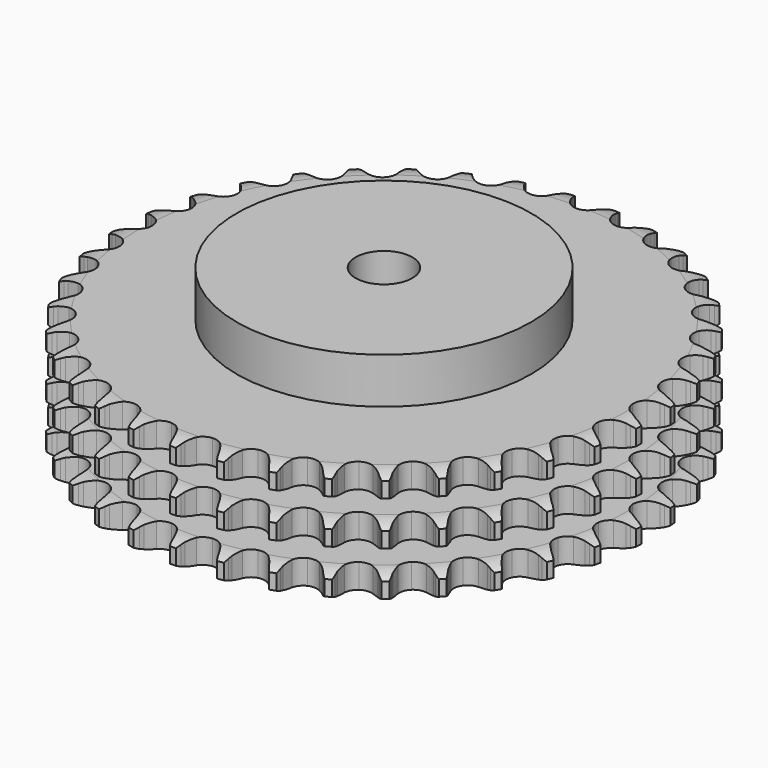
from build123d import *

# Parameters (mm, degrees)
PAD_DEPTH         = 49.8
SKETCH001_R       = 65
PAD001_DEPTH      = 70
SKETCH002_R       = 12.5
POCKET_DEPTH      = 0.001
POCKET_DEPTH_BACK = 70.001


with BuildPart() as part:
    # Sprocket → Pad (new body)
    with BuildSketch(Plane.XY):
        with BuildLine():
            ThreePointArc((-10.038333, 117.941871), (-8.627159, 116.235604), (-7.635, 114.256115))
            Line((-7.635, 114.256115), (-7.046288, 112.650437))
            ThreePointArc((-7.046288, 112.650437), (-6.115619, 110.585078), (-4.898442, 108.674493))
            ThreePointArc((-4.898442, 108.674493), (-2.741289, 106.862258), (0, 106.211991))
            ThreePointArc((0, 106.211991), (2.741289, 106.862258), (4.898442, 108.674493))
            ThreePointArc((4.898442, 108.674493), (6.115619, 110.585078), (7.046288, 112.650437))
            Line((7.046288, 112.650437), (7.635, 114.256115))
            ThreePointArc((7.635, 114.256115), (8.627159, 116.235604), (10.038333, 117.941871))
            ThreePointArc((10.038333, 117.941871), (11.140847, 116.021658), (11.7842, 113.902967))
            Line((11.7842, 113.902967), (12.093082, 112.220891))
            ThreePointArc((12.093082, 112.220891), (12.661318, 110.027957), (13.538096, 107.93915))
            ThreePointArc((13.538096, 107.93915), (15.357952, 105.788422), (17.949914, 104.684229))
            ThreePointArc((17.949914, 104.684229), (20.761667, 104.861861), (23.194061, 106.283469))
            Line((23.194061, 106.283469), (25.98295, 109.839234))
            ThreePointArc((25.98295, 109.839234), (26.388619, 110.59234), (26.834555, 111.322324))
            ThreePointArc((26.834555, 111.322324), (28.146978, 113.105664), (29.826213, 114.548898))
            ThreePointArc((29.826213, 114.548898), (30.588351, 112.46998), (30.86439, 110.273037))
            Line((30.86439, 110.273037), (30.884557, 108.562955))
            ThreePointArc((30.884557, 108.562955), (31.074011, 106.305532), (31.585168, 104.098595))
            ThreePointArc((31.585168, 104.098595), (33.015371, 101.671245), (35.383441, 100.144891))
            ThreePointArc((35.383441, 100.144891), (38.18477, 99.84478), (40.822429, 100.834863))
            Line((40.822429, 100.834863), (44.17213, 103.868157))
            ThreePointArc((44.17213, 103.868157), (44.699239, 104.541871), (45.262128, 105.185992))
            ThreePointArc((45.262128, 105.185992), (46.857059, 106.721879), (48.756048, 107.860562))
            ThreePointArc((48.756048, 107.860562), (49.155885, 105.682745), (49.056667, 103.470752))
            Line((49.056667, 103.470752), (48.787539, 101.78186))
            ThreePointArc((48.787539, 101.78186), (48.592762, 99.52489), (48.723592, 97.263312))
            ThreePointArc((48.723592, 97.263312), (49.722999, 94.629172), (51.799051, 92.724567))
            ThreePointArc((51.799051, 92.724567), (54.509366, 91.955347), (57.27641, 92.485421))
            Line((57.27641, 92.485421), (61.090558, 94.908982))
            ThreePointArc((61.090558, 94.908982), (61.723943, 95.483924), (62.387593, 96.02365))
            ThreePointArc((62.387593, 96.02365), (64.219148, 97.267901), (66.28326, 98.069273))
            ThreePointArc((66.28326, 98.069273), (66.309293, 95.85521), (65.837674, 93.691803))
            Line((65.837674, 93.691803), (65.286993, 92.072687))
            ThreePointArc((65.286993, 92.072687), (64.713587, 89.881099), (64.460327, 87.629941))
            ThreePointArc((64.460327, 87.629941), (65.000187, 84.86479), (66.724497, 82.636727))
            ThreePointArc((66.724497, 82.636727), (69.265828, 81.420525), (72.082653, 81.475342))
            Line((72.082653, 81.475342), (76.251521, 83.219448))
            ThreePointArc((76.251521, 83.219448), (76.972962, 83.679077), (77.718279, 84.098883))
            ThreePointArc((77.718279, 84.098883), (79.733769, 85.015702), (81.903623, 85.456711))
            ThreePointArc((81.903623, 85.456711), (81.555103, 83.270095), (80.72465, 81.21751))
            Line((80.72465, 81.21751), (79.908259, 79.71475))
            ThreePointArc((79.908259, 79.71475), (78.972721, 77.651591), (78.342655, 75.475616))
            ThreePointArc((78.342655, 75.475616), (78.407437, 72.659002), (79.7304, 70.171578))
            ThreePointArc((79.7304, 70.171578), (82.029637, 68.543383), (84.815209, 68.121366))
            Line((84.815209, 68.121366), (89.218868, 69.135843))
            ThreePointArc((89.218868, 69.135843), (90.007609, 69.466936), (90.813153, 69.754744))
            ThreePointArc((90.813153, 69.754744), (92.954595, 70.317756), (95.167768, 70.385714))
            ThreePointArc((95.167768, 70.385714), (94.454721, 68.289451), (93.289325, 66.406738))
            Line((93.289325, 66.406738), (92.230709, 65.063564))
            ThreePointArc((92.230709, 65.063564), (90.959952, 63.188189), (89.971209, 61.149995))
            ThreePointArc((89.971209, 61.149995), (89.559049, 58.362947), (90.442605, 55.687721))
            ThreePointArc((90.442605, 55.687721), (92.433604, 53.694373), (95.107786, 52.807662))
            Line((95.107786, 52.807662), (99.61955, 53.063325))
            ThreePointArc((99.61955, 53.063325), (100.4529, 53.256358), (101.295498, 53.403889))
            ThreePointArc((101.295498, 53.403889), (103.501286, 53.596896), (105.69411, 53.289849))
            ThreePointArc((105.69411, 53.289849), (104.637049, 51.344244), (103.170237, 49.685565))
            Line((103.170237, 49.685565), (101.89985, 48.540619))
            ThreePointArc((101.89985, 48.540619), (100.330432, 46.906978), (99.011454, 45.0652))
            ThreePointArc((99.011454, 45.0652), (98.134209, 42.387897), (98.552941, 39.601829))
            ThreePointArc((98.552941, 39.601829), (100.178424, 37.300673), (102.664286, 35.974778))
            Line((102.664286, 35.974778), (107.154358, 35.464272))
            ThreePointArc((107.154358, 35.464272), (108.008345, 35.513691), (108.863755, 35.5167))
            ThreePointArc((108.863755, 35.5167), (111.070434, 35.334152), (113.179825, 34.660932))
            ThreePointArc((113.179825, 34.660932), (111.80916, 32.921957), (110.083128, 31.535029))
            Line((110.083128, 31.535029), (108.637518, 30.621248))
            ThreePointArc((108.637518, 30.621248), (106.814588, 29.276339), (105.20332, 27.683961))
            ThreePointArc((105.20332, 27.683961), (103.886227, 25.193423), (103.828089, 22.376665))
            ThreePointArc((103.828089, 22.376665), (105.041293, 19.833901), (107.26732, 18.106965))
            Line((107.26732, 18.106965), (111.606531, 16.844976))
            ThreePointArc((111.606531, 16.844976), (112.456586, 16.74936), (113.3002, 16.607761))
            ThreePointArc((113.3002, 16.607761), (115.444287, 16.054908), (117.409562, 15.034883))
            ThreePointArc((117.409562, 15.034883), (115.764725, 13.552565), (113.829128, 12.477288))
            Line((113.829128, 12.477288), (112.249882, 11.820959))
            ThreePointArc((112.249882, 11.820959), (110.225883, 10.803472), (108.368678, 9.506305))
            ThreePointArc((108.368678, 9.506305), (106.649628, 7.274181), (106.116291, 4.507765))
            ThreePointArc((106.116291, 4.507765), (106.882315, 1.796544), (108.78447, -0.281752))
            Line((108.78447, -0.281752), (112.847988, -2.258919))
            ThreePointArc((112.847988, -2.258919), (113.669656, -2.49682), (114.477205, -2.778954))
            ThreePointArc((114.477205, -2.778954), (116.497019, -3.686207), (118.26164, -5.023693))
            ThreePointArc((118.26164, -5.023693), (116.389949, -6.20671), (114.300472, -6.939403))
            Line((114.300472, -6.939403), (112.633021, -7.319396))
            ThreePointArc((112.633021, -7.319396), (110.466179, -7.98019), (108.416467, -8.94483))
            ThreePointArc((108.416467, -8.94483), (106.344913, -10.854326), (105.351721, -13.490816))
            ThreePointArc((105.351721, -13.490816), (105.648528, -16.292496), (107.172088, -18.662364))
            Line((107.172088, -18.662364), (110.843013, -21.297829))
            ThreePointArc((110.843013, -21.297829), (111.612657, -21.67117), (112.36091, -22.085722))
            ThreePointArc((112.36091, -22.085722), (114.198343, -23.321276), (115.711546, -24.937746))
            ThreePointArc((115.711546, -24.937746), (113.666847, -25.787429), (111.483599, -26.156459))
            Line((111.483599, -26.156459), (109.775914, -26.249187))
            ThreePointArc((109.775914, -26.249187), (107.528565, -26.534278), (105.345311, -27.138639))
            ThreePointArc((105.345311, -27.138639), (102.980848, -28.670574), (101.556373, -31.10129))
            ThreePointArc((101.556373, -31.10129), (101.375424, -33.912831), (102.47656, -36.506094))
            Line((102.47656, -36.506094), (105.649287, -39.72404))
            ThreePointArc((105.649287, -39.72404), (106.344765, -40.222081), (107.012195, -40.757125))
            ThreePointArc((107.012195, -40.757125), (108.614389, -42.285434), (109.832641, -44.134385))
            ThreePointArc((109.832641, -44.134385), (107.673756, -44.626291), (105.459546, -44.621042))
            Line((105.459546, -44.621042), (103.760753, -44.423836))
            ThreePointArc((103.760753, -44.423836), (101.49755, -44.325022), (99.243562, -44.551718))
            ThreePointArc((99.243562, -44.551718), (96.654212, -45.662021), (94.839434, -47.817036))
            ThreePointArc((94.839434, -47.817036), (94.185935, -50.557556), (94.832968, -53.29961))
            Line((94.832968, -53.29961), (97.416223, -57.007461))
            ThreePointArc((97.416223, -57.007461), (98.017528, -57.615875), (98.584934, -58.25602))
            ThreePointArc((98.584934, -58.25602), (99.905797, -60.033118), (100.794051, -62.061359))
            ThreePointArc((100.794051, -62.061359), (98.583087, -62.181335), (96.401613, -61.801959))
            Line((96.401613, -61.801959), (94.760585, -61.320491))
            ThreePointArc((94.760585, -61.320491), (92.546635, -60.840616), (90.286757, -60.683126))
            ThreePointArc((90.286757, -60.683126), (87.54701, -61.339856), (85.394136, -63.157174))
            ThreePointArc((85.394136, -63.157174), (84.286887, -65.747832), (84.461204, -68.559793))
            Line((84.461204, -68.559793), (86.380671, -72.650883))
            ThreePointArc((86.380671, -72.650883), (86.870505, -73.352166), (87.321565, -74.078995))
            ThreePointArc((87.321565, -74.078995), (88.323097, -76.053758), (88.8558, -78.20294))
            ThreePointArc((88.8558, -78.20294), (86.656363, -77.947536), (84.570382, -77.204946))
            Line((84.570382, -77.204946), (83.034327, -76.453069))
            ThreePointArc((83.034327, -76.453069), (80.933322, -75.605936), (78.732566, -75.06879))
            ThreePointArc((78.732566, -75.06879), (75.92124, -75.253054), (73.492205, -76.680394))
            ThreePointArc((73.492205, -76.680394), (71.96306, -79.046662), (71.659646, -81.847635))
            Line((71.659646, -81.847635), (72.860105, -86.20427))
            ThreePointArc((72.860105, -86.20427), (73.224375, -86.978248), (73.546113, -87.770852))
            ThreePointArc((73.546113, -87.770852), (74.199502, -89.88647), (74.361329, -92.094765))
            ThreePointArc((74.361329, -92.094765), (72.236692, -91.471328), (70.306215, -90.386887))
            Line((70.306215, -90.386887), (68.919322, -89.38623))
            ThreePointArc((68.919322, -89.38623), (66.991705, -88.196212), (64.913383, -87.294862))
            ThreePointArc((64.913383, -87.294862), (62.111354, -87.001359), (59.476037, -87.99766))
            ThreePointArc((59.476037, -87.99766), (57.568986, -90.071464), (56.796569, -92.78087))
            Line((56.796569, -92.78087), (57.243486, -97.277718))
            ThreePointArc((57.243486, -97.277718), (57.471714, -98.102125), (57.654873, -98.937702))
            ThreePointArc((57.654873, -98.937702), (57.941323, -101.133311), (57.727618, -103.337191))
            ThreePointArc((57.727618, -103.337191), (55.738904, -102.363656), (54.019466, -100.968562))
            Line((54.019466, -100.968562), (52.821634, -99.747913))
            ThreePointArc((52.821634, -99.747913), (51.122858, -98.249243), (49.22676, -97.00962))
            ThreePointArc((49.22676, -97.00962), (46.514638, -96.246794), (43.748852, -96.783393))
            ThreePointArc((43.748852, -96.783393), (41.518757, -98.505074), (40.299559, -101.044969))
            Line((40.299559, -101.044969), (39.980077, -105.552662))
            ThreePointArc((39.980077, -105.552662), (40.065696, -106.403782), (40.105007, -107.258294))
            ThreePointArc((40.105007, -107.258294), (40.016277, -109.470732), (39.433189, -111.606794))
            ThreePointArc((39.433189, -111.606794), (37.637608, -110.311169), (36.178675, -108.645555))
            Line((36.178675, -108.645555), (35.204364, -107.240029))
            ThreePointArc((35.204364, -107.240029), (33.783299, -105.475822), (32.123972, -103.933588))
            ThreePointArc((32.123972, -103.933588), (29.57978, -102.723383), (26.763092, -102.784843))
            ThreePointArc((26.763092, -102.784843), (24.274109, -104.104872), (22.643204, -106.402188))
            Line((22.643204, -106.402188), (21.566513, -110.791049))
            ThreePointArc((21.566513, -110.791049), (21.507061, -111.644396), (21.401393, -112.49326))
            ThreePointArc((21.401393, -112.49326), (20.940036, -114.658879), (20.004339, -116.665674))
            ThreePointArc((20.004339, -116.665674), (18.453548, -115.08523), (17.29709, -113.197013))
            Line((17.29709, -113.197013), (16.574328, -111.647045))
            ThreePointArc((16.574328, -111.647045), (15.471857, -109.668053), (14.097036, -107.867575))
            ThreePointArc((14.097036, -107.867575), (11.793966, -106.244808), (9.007406, -105.829361))
            ThreePointArc((9.007406, -105.829361), (6.33114, -106.709763), (4.335445, -108.698409))
            Line((4.335445, -108.698409), (2.532521, -112.842179))
            ThreePointArc((2.532521, -112.842179), (2.329707, -113.673204), (2.082101, -114.492))
            ThreePointArc((2.082101, -114.492), (1.261388, -116.548498), (0, -118.368294))
            ThreePointArc((0, -118.368294), (-1.261388, -116.548498), (-2.082101, -114.492))
            Line((-2.082101, -114.492), (-2.532521, -112.842179))
            ThreePointArc((-2.532521, -112.842179), (-3.284682, -110.705335), (-4.335445, -108.698409))
            ThreePointArc((-4.335445, -108.698409), (-6.33114, -106.709763), (-9.007406, -105.829361))
            ThreePointArc((-9.007406, -105.829361), (-11.793966, -106.244808), (-14.097036, -107.867575))
            Line((-14.097036, -107.867575), (-16.574328, -111.647045))
            ThreePointArc((-16.574328, -111.647045), (-16.914668, -112.431841), (-17.29709, -113.197013))
            ThreePointArc((-17.29709, -113.197013), (-18.453548, -115.08523), (-20.004339, -116.665674))
            ThreePointArc((-20.004339, -116.665674), (-20.940036, -114.658879), (-21.401393, -112.49326))
            Line((-21.401393, -112.49326), (-21.566513, -110.791049))
            ThreePointArc((-21.566513, -110.791049), (-21.946728, -108.557825), (-22.643204, -106.402188))
            ThreePointArc((-22.643204, -106.402188), (-24.274109, -104.104872), (-26.763092, -102.784843))
            ThreePointArc((-26.763092, -102.784843), (-29.57978, -102.723383), (-32.123972, -103.933588))
            Line((-32.123972, -103.933588), (-35.204364, -107.240029))
            ThreePointArc((-35.204364, -107.240029), (-35.67244, -107.956018), (-36.178675, -108.645555))
            ThreePointArc((-36.178675, -108.645555), (-37.637608, -110.311169), (-39.433189, -111.606794))
            ThreePointArc((-39.433189, -111.606794), (-40.016277, -109.470732), (-40.105007, -107.258294))
            Line((-40.105007, -107.258294), (-39.980077, -105.552662))
            ThreePointArc((-39.980077, -105.552662), (-39.977405, -103.287305), (-40.299559, -101.044969))
            ThreePointArc((-40.299559, -101.044969), (-41.518757, -98.505074), (-43.748852, -96.783393))
            ThreePointArc((-43.748852, -96.783393), (-46.514638, -96.246794), (-49.22676, -97.00962))
            Line((-49.22676, -97.00962), (-52.821634, -99.747913))
            ThreePointArc((-52.821634, -99.747913), (-53.40398, -100.374498), (-54.019466, -100.968562))
            ThreePointArc((-54.019466, -100.968562), (-55.738904, -102.363656), (-57.727618, -103.337191))
            ThreePointArc((-57.727618, -103.337191), (-57.941323, -101.133311), (-57.654873, -98.937702))
            Line((-57.654873, -98.937702), (-57.243486, -97.277718))
            ThreePointArc((-57.243486, -97.277718), (-56.858006, -95.045396), (-56.796569, -92.78087))
            ThreePointArc((-56.796569, -92.78087), (-57.568986, -90.071464), (-59.476037, -87.99766))
            ThreePointArc((-59.476037, -87.99766), (-62.111354, -87.001359), (-64.913383, -87.294862))
            Line((-64.913383, -87.294862), (-68.919322, -89.38623))
            ThreePointArc((-68.919322, -89.38623), (-69.599185, -89.905385), (-70.306215, -90.386887))
            ThreePointArc((-70.306215, -90.386887), (-72.236692, -91.471328), (-74.361329, -92.094765))
            ThreePointArc((-74.361329, -92.094765), (-74.199502, -89.88647), (-73.546113, -87.770852))
            Line((-73.546113, -87.770852), (-72.860105, -86.20427))
            ThreePointArc((-72.860105, -86.20427), (-72.102905, -84.069205), (-71.659646, -81.847635))
            ThreePointArc((-71.659646, -81.847635), (-71.96306, -79.046662), (-73.492205, -76.680394))
            ThreePointArc((-73.492205, -76.680394), (-75.92124, -75.253054), (-78.732566, -75.06879))
            Line((-78.732566, -75.06879), (-83.034327, -76.453069))
            ThreePointArc((-83.034327, -76.453069), (-83.792148, -76.849859), (-84.570382, -77.204946))
            ThreePointArc((-84.570382, -77.204946), (-86.656363, -77.947536), (-88.8558, -78.20294))
            ThreePointArc((-88.8558, -78.20294), (-88.323097, -76.053758), (-87.321565, -74.078995))
            Line((-87.321565, -74.078995), (-86.380671, -72.650883))
            ThreePointArc((-86.380671, -72.650883), (-85.273535, -70.674496), (-84.461204, -68.559793))
            ThreePointArc((-84.461204, -68.559793), (-84.286887, -65.747832), (-85.394136, -63.157174))
            ThreePointArc((-85.394136, -63.157174), (-87.54701, -61.339856), (-90.286757, -60.683126))
            Line((-90.286757, -60.683126), (-94.760585, -61.320491))
            ThreePointArc((-94.760585, -61.320491), (-95.574563, -61.583502), (-96.401613, -61.801959))
            ThreePointArc((-96.401613, -61.801959), (-98.583087, -62.181335), (-100.794051, -62.061359))
            ThreePointArc((-100.794051, -62.061359), (-99.905797, -60.033118), (-98.584934, -58.25602))
            Line((-98.584934, -58.25602), (-97.416223, -57.007461))
            ThreePointArc((-97.416223, -57.007461), (-95.991001, -55.24661), (-94.832968, -53.29961))
            ThreePointArc((-94.832968, -53.29961), (-94.185935, -50.557556), (-94.839434, -47.817036))
            ThreePointArc((-94.839434, -47.817036), (-96.654212, -45.662021), (-99.243562, -44.551718))
            Line((-99.243562, -44.551718), (-103.760753, -44.423836))
            ThreePointArc((-103.760753, -44.423836), (-104.607472, -44.5455), (-105.459546, -44.621042))
            ThreePointArc((-105.459546, -44.621042), (-107.673756, -44.626291), (-109.832641, -44.134385))
            ThreePointArc((-109.832641, -44.134385), (-108.614389, -42.285434), (-107.012195, -40.757125))
            Line((-107.012195, -40.757125), (-105.649287, -39.72404))
            ThreePointArc((-105.649287, -39.72404), (-103.94698, -38.22938), (-102.47656, -36.506094))
            ThreePointArc((-102.47656, -36.506094), (-101.375424, -33.912831), (-101.556373, -31.10129))
            ThreePointArc((-101.556373, -31.10129), (-102.980848, -28.670574), (-105.345311, -27.138639))
            Line((-105.345311, -27.138639), (-109.775914, -26.249187))
            ThreePointArc((-109.775914, -26.249187), (-110.631015, -26.226005), (-111.483599, -26.156459))
            ThreePointArc((-111.483599, -26.156459), (-113.666847, -25.787429), (-115.711546, -24.937746))
            ThreePointArc((-115.711546, -24.937746), (-114.198343, -23.321276), (-112.36091, -22.085722))
            Line((-112.36091, -22.085722), (-110.843013, -21.297829))
            ThreePointArc((-110.843013, -21.297829), (-108.912594, -20.112361), (-107.172088, -18.662364))
            ThreePointArc((-107.172088, -18.662364), (-105.648528, -16.292496), (-105.351721, -13.490816))
            ThreePointArc((-105.351721, -13.490816), (-106.344913, -10.854326), (-108.416467, -8.94483))
            Line((-108.416467, -8.94483), (-112.633021, -7.319396))
            ThreePointArc((-112.633021, -7.319396), (-113.471905, -7.152035), (-114.300472, -6.939403))
            ThreePointArc((-114.300472, -6.939403), (-116.389949, -6.20671), (-118.26164, -5.023693))
            ThreePointArc((-118.26164, -5.023693), (-116.497019, -3.686207), (-114.477205, -2.778954))
            Line((-114.477205, -2.778954), (-112.847988, -2.258919))
            ThreePointArc((-112.847988, -2.258919), (-110.744991, -1.416745), (-108.78447, -0.281752))
            ThreePointArc((-108.78447, -0.281752), (-106.882315, 1.796544), (-106.116291, 4.507765))
            ThreePointArc((-106.116291, 4.507765), (-106.649628, 7.274181), (-108.368678, 9.506305))
            Line((-108.368678, 9.506305), (-112.249882, 11.820959))
            ThreePointArc((-112.249882, 11.820959), (-113.048415, 12.127685), (-113.829128, 12.477288))
            ThreePointArc((-113.829128, 12.477288), (-115.764725, 13.552565), (-117.409562, 15.034883))
            ThreePointArc((-117.409562, 15.034883), (-115.444287, 16.054908), (-113.3002, 16.607761))
            Line((-113.3002, 16.607761), (-111.606531, 16.844976))
            ThreePointArc((-111.606531, 16.844976), (-109.391456, 17.319628), (-107.26732, 18.106965))
            ThreePointArc((-107.26732, 18.106965), (-105.041293, 19.833901), (-103.828089, 22.376665))
            ThreePointArc((-103.828089, 22.376665), (-103.886227, 25.193423), (-105.20332, 27.683961))
            Line((-105.20332, 27.683961), (-108.637518, 30.621248))
            ThreePointArc((-108.637518, 30.621248), (-109.372728, 31.058514), (-110.083128, 31.535029))
            ThreePointArc((-110.083128, 31.535029), (-111.80916, 32.921957), (-113.179825, 34.660932))
            ThreePointArc((-113.179825, 34.660932), (-111.070434, 35.334152), (-108.863755, 35.5167))
            Line((-108.863755, 35.5167), (-107.154358, 35.464272))
            ThreePointArc((-107.154358, 35.464272), (-104.890928, 35.557747), (-102.664286, 35.974778))
            ThreePointArc((-102.664286, 35.974778), (-100.178424, 37.300673), (-98.552941, 39.601829))
            ThreePointArc((-98.552941, 39.601829), (-98.134209, 42.387897), (-99.011454, 45.0652))
            Line((-99.011454, 45.0652), (-101.89985, 48.540619))
            ThreePointArc((-101.89985, 48.540619), (-102.550586, 49.095847), (-103.170237, 49.685565))
            ThreePointArc((-103.170237, 49.685565), (-104.637049, 51.344244), (-105.69411, 53.289849))
            ThreePointArc((-105.69411, 53.289849), (-103.501286, 53.596896), (-101.295498, 53.403889))
            Line((-101.295498, 53.403889), (-99.61955, 53.063325))
            ThreePointArc((-99.61955, 53.063325), (-97.37288, 52.772934), (-95.107786, 52.807662))
            ThreePointArc((-95.107786, 52.807662), (-92.433604, 53.694373), (-90.442605, 55.687721))
            ThreePointArc((-90.442605, 55.687721), (-89.559049, 58.362947), (-89.971209, 61.149995))
            Line((-89.971209, 61.149995), (-92.230709, 65.063564))
            ThreePointArc((-92.230709, 65.063564), (-92.778251, 65.720781), (-93.289325, 66.406738))
            ThreePointArc((-93.289325, 66.406738), (-94.454721, 68.289451), (-95.167768, 70.385714))
            ThreePointArc((-95.167768, 70.385714), (-92.954595, 70.317756), (-90.813153, 69.754744))
            Line((-90.813153, 69.754744), (-89.218868, 69.135843))
            ThreePointArc((-89.218868, 69.135843), (-87.05359, 68.46994), (-84.815209, 68.121366))
            ThreePointArc((-84.815209, 68.121366), (-82.029637, 68.543383), (-79.7304, 70.171578))
            ThreePointArc((-79.7304, 70.171578), (-78.407437, 72.659002), (-78.342655, 75.475616))
            Line((-78.342655, 75.475616), (-79.908259, 79.71475))
            ThreePointArc((-79.908259, 79.71475), (-80.336854, 80.455048), (-80.72465, 81.21751))
            ThreePointArc((-80.72465, 81.21751), (-81.555103, 83.270095), (-81.903623, 85.456711))
            ThreePointArc((-81.903623, 85.456711), (-79.733769, 85.015702), (-77.718279, 84.098883))
            Line((-77.718279, 84.098883), (-76.251521, 83.219448))
            ThreePointArc((-76.251521, 83.219448), (-74.229928, 82.19719), (-72.082653, 81.475342))
            ThreePointArc((-72.082653, 81.475342), (-69.265828, 81.420525), (-66.724497, 82.636727))
            ThreePointArc((-66.724497, 82.636727), (-65.000187, 84.86479), (-64.460327, 87.629941))
            Line((-64.460327, 87.629941), (-65.286993, 92.072687))
            ThreePointArc((-65.286993, 92.072687), (-65.584313, 92.874769), (-65.837674, 93.691803))
            ThreePointArc((-65.837674, 93.691803), (-66.309293, 95.85521), (-66.28326, 98.069273))
            ThreePointArc((-66.28326, 98.069273), (-64.219148, 97.267901), (-62.387593, 96.02365))
            Line((-62.387593, 96.02365), (-61.090558, 94.908982))
            ThreePointArc((-61.090558, 94.908982), (-59.270805, 93.559777), (-57.27641, 92.485421))
            ThreePointArc((-57.27641, 92.485421), (-54.509366, 91.955347), (-51.799051, 92.724567))
            ThreePointArc((-51.799051, 92.724567), (-49.722999, 94.629172), (-48.723592, 97.263312))
            Line((-48.723592, 97.263312), (-48.787539, 101.78186))
            ThreePointArc((-48.787539, 101.78186), (-48.94503, 102.622653), (-49.056667, 103.470752))
            ThreePointArc((-49.056667, 103.470752), (-49.155885, 105.682745), (-48.756048, 107.860562))
            ThreePointArc((-48.756048, 107.860562), (-46.857059, 106.721879), (-45.262128, 105.185992))
            Line((-45.262128, 105.185992), (-44.17213, 103.868157))
            ThreePointArc((-44.17213, 103.868157), (-42.606569, 102.23082), (-40.822429, 100.834863))
            ThreePointArc((-40.822429, 100.834863), (-38.18477, 99.84478), (-35.383441, 100.144891))
            ThreePointArc((-35.383441, 100.144891), (-33.015371, 101.671245), (-31.585168, 104.098595))
            Line((-31.585168, 104.098595), (-30.884557, 108.562955))
            ThreePointArc((-30.884557, 108.562955), (-30.897688, 109.41827), (-30.86439, 110.273037))
            ThreePointArc((-30.86439, 110.273037), (-30.588351, 112.46998), (-29.826213, 114.548898))
            ThreePointArc((-29.826213, 114.548898), (-28.146978, 113.105664), (-26.834555, 111.322324))
            Line((-26.834555, 111.322324), (-25.98295, 109.839234))
            ThreePointArc((-25.98295, 109.839234), (-24.71662, 107.960868), (-23.194061, 106.283469))
            ThreePointArc((-23.194061, 106.283469), (-20.761667, 104.861861), (-17.949914, 104.684229))
            ThreePointArc((-17.949914, 104.684229), (-15.357952, 105.788422), (-13.538096, 107.93915))
            Line((-13.538096, 107.93915), (-12.093082, 112.220891))
            ThreePointArc((-12.093082, 112.220891), (-11.961475, 113.066122), (-11.7842, 113.902967))
            ThreePointArc((-11.7842, 113.902967), (-11.140847, 116.021658), (-10.038333, 117.941871))
        make_face()
    extrude(amount=PAD_DEPTH)

    # Sketch → Groove (revolve, cut)
    with BuildSketch(Plane.XZ):
        with BuildLine():
            ThreePointArc((107.964719, 0), (112.323618, 0.506758), (116.45, 2))
            Line((116.45, 2), (116.45, 8.8))
            ThreePointArc((116.45, 8.8), (112.323618, 10.293242), (107.964719, 10.8))
            Line((65, 10.8), (107.964719, 10.8))
            Line((65, 10.8), (65, 19.5))
            Line((65, 19.5), (107.964719, 19.5))
            ThreePointArc((107.964719, 19.5), (112.323618, 20.006758), (116.45, 21.5))
            Line((116.45, 28.3), (116.45, 21.5))
            ThreePointArc((116.45, 28.3), (112.323618, 29.793242), (107.964719, 30.3))
            Line((65, 30.3), (107.964719, 30.3))
            Line((65, 39), (65, 30.3))
            Line((107.964719, 39), (65, 39))
            ThreePointArc((107.964719, 39), (112.323618, 39.506758), (116.45, 41))
            Line((116.45, 41), (116.45, 47.8))
            ThreePointArc((116.45, 47.8), (112.323618, 49.293242), (107.964719, 49.8))
            Line((107.964719, 49.8), (126.45, 49.8))
            Line((126.45, 49.8), (126.45, 0))
            Line((107.964719, 0), (126.45, 0))
        make_face()
    revolve(axis=Axis((0, 0, 0), (0, 0, 1)), mode=Mode.SUBTRACT)

    # Sketch001 → Pad001 (join)
    with BuildSketch(Plane.XY):
        Circle(SKETCH001_R)
    extrude(amount=PAD001_DEPTH)

    # Sketch002 → Pocket (cut, two sides)
    with BuildSketch(Plane.XY) as pocket_sk:
        Circle(SKETCH002_R)
    extrude(amount=-POCKET_DEPTH, mode=Mode.SUBTRACT)
    extrude(pocket_sk.sketch, amount=POCKET_DEPTH_BACK, mode=Mode.SUBTRACT)


solid = part.part
